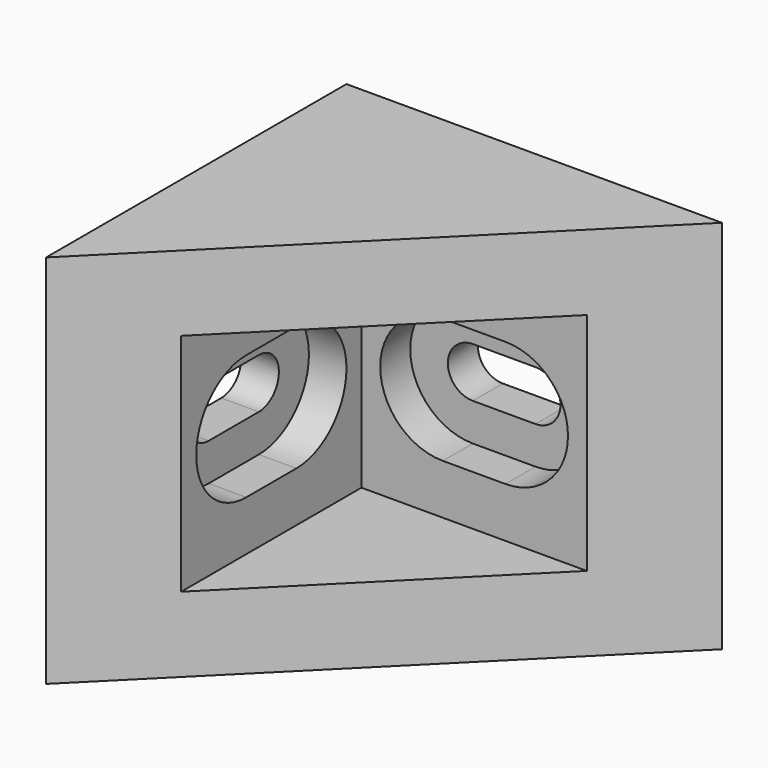
from build123d import *

# Parameters (mm, degrees)
F1_DEPTH  = 30
F2_T      = -6
F4_DEPTH  = 6.001
F6_DEPTH  = 3
F8_DEPTH  = 6.001
F10_DEPTH = 3


with BuildPart() as f1:
    # F0 (on Top) → F1 (new body)
    with BuildSketch(Plane.XY):
        Polygon((0, 30), (0, 0), (30, 30), align=None)
    extrude(amount=F1_DEPTH)

    # F2
    f2_openings = [f1.faces().sort_by_distance(p)[0] for p in [
        (15, 15, 15),
    ]]
    offset(amount=F2_T, openings=f2_openings)

    # F3 (on face) → F4 (cut, through all)
    with BuildSketch(Plane.XZ.offset(-24)):
        with BuildLine():
            ThreePointArc((17.5, 13), (19.5, 15), (17.5, 17))
            Line((17.5, 17), (12.5, 17))
            ThreePointArc((12.5, 17), (10.5, 15), (12.5, 13))
            Line((12.5, 13), (17.5, 13))
        make_face()
    extrude(amount=-F4_DEPTH, mode=Mode.SUBTRACT)

    # F5 (on face) → F6 (cut)
    with BuildSketch(Plane.XZ.offset(-24)):
        with BuildLine():
            ThreePointArc((17.5, 10), (22.5, 15), (17.5, 20))
            Line((17.5, 20), (12.5, 20))
            ThreePointArc((12.5, 20), (7.5, 15), (12.5, 10))
            Line((12.5, 10), (17.5, 10))
        make_face()
    extrude(amount=-F6_DEPTH, mode=Mode.SUBTRACT)

    # F7 (on face) → F8 (cut, through all)
    with BuildSketch(Plane.YZ.offset(6)):
        with BuildLine():
            ThreePointArc((17.5, 13), (19.5, 15), (17.5, 17))
            Line((17.5, 17), (12.5, 17))
            ThreePointArc((12.5, 17), (10.5, 15), (12.5, 13))
            Line((12.5, 13), (17.5, 13))
        make_face()
    extrude(amount=-F8_DEPTH, mode=Mode.SUBTRACT)

    # F9 (on face) → F10 (cut)
    with BuildSketch(Plane.YZ.offset(6)):
        with BuildLine():
            ThreePointArc((12.5, 20), (7.5, 15), (12.5, 10))
            Line((12.5, 10), (17.5, 10))
            ThreePointArc((17.5, 10), (22.5, 15), (17.5, 20))
            Line((17.5, 20), (12.5, 20))
        make_face()
    extrude(amount=-F10_DEPTH, mode=Mode.SUBTRACT)


solid = f1.part
